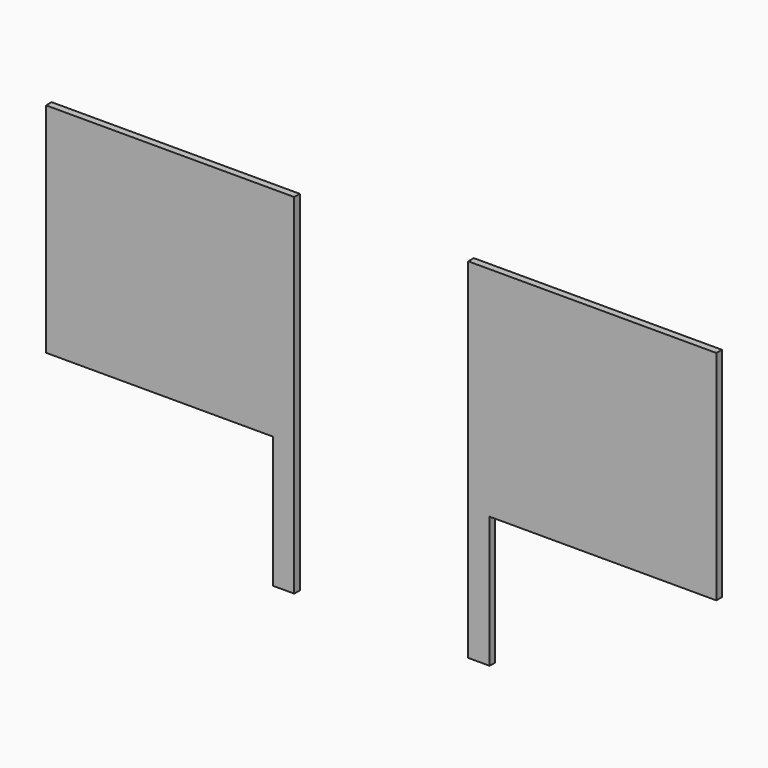
from build123d import *

# Parameters (mm, degrees)
F1_DEPTH = 2


with BuildPart() as f1:
    # F0 (on Front) → F1 (new body)
    with BuildSketch(Plane.XZ):
        Polygon((0, 0), (0, 62.600806), (-71.310483, 62.600806), (-71.310483, 0), (-6.169355, 0), (-6.169355, -37.741937), (0, -37.741937), align=None)
    extrude(amount=F1_DEPTH)


with BuildPart() as f3_1:
    # F3: instance of F1
    add(f1.part.mirror(Plane.YZ.offset(25)))


solid = Compound([f1.part, f3_1.part])
